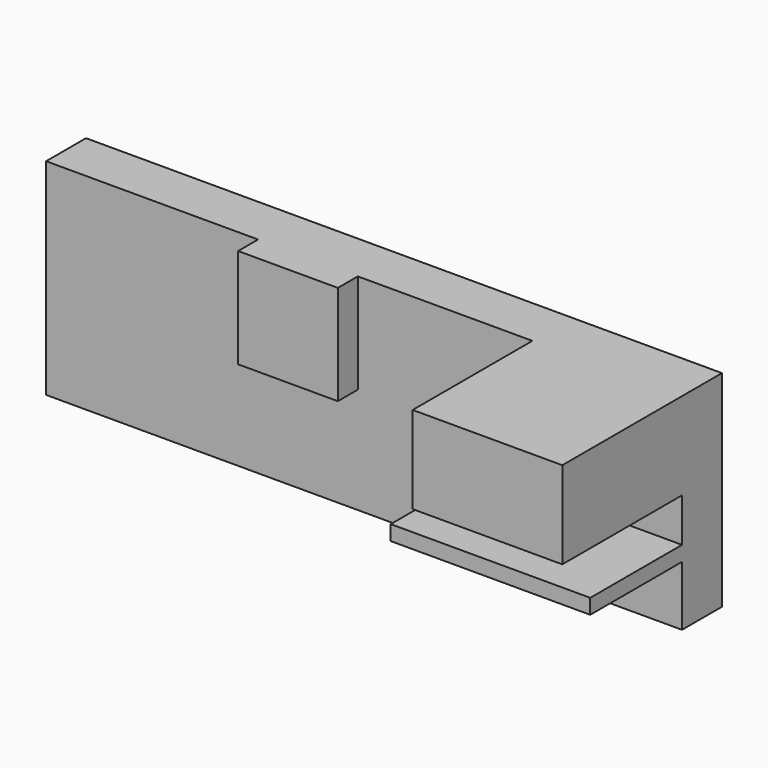
from build123d import *

# Parameters (mm, degrees)
F0_W     = 647.7
F0_H     = 209.55
F1_DEPTH = 50.8
F2_W     = 101.6
F2_H     = 101.6
F3_DEPTH = 25.4
F4_W     = 203.2
F4_H     = 15.24
F5_DEPTH = 116.84
F6_W     = 152.4
F6_H     = 88.9
F7_DEPTH = 152.4


with BuildPart() as f1:
    # F0 (on Front) → F1 (new body)
    with BuildSketch(Plane.XZ):
        with Locations((323.85, 104.775)):
            Rectangle(F0_W, F0_H)
    extrude(amount=F1_DEPTH)

    # F2 (on face) → F3 (join)
    with BuildSketch(Plane.XZ.offset(50.8)):
        with Locations((266.7, 158.75)):
            Rectangle(F2_W, F2_H)
    extrude(amount=F3_DEPTH)

    # F4 (on face) → F5 (join)
    with BuildSketch(Plane.XZ.offset(50.8)):
        with Locations((546.1, 68.58)):
            Rectangle(F4_W, F4_H)
    extrude(amount=F5_DEPTH)

    # F6 (on face) → F7 (join)
    with BuildSketch(Plane.XZ.offset(50.8)):
        with Locations((571.5, 165.1)):
            Rectangle(F6_W, F6_H)
    extrude(amount=F7_DEPTH)


solid = f1.part
